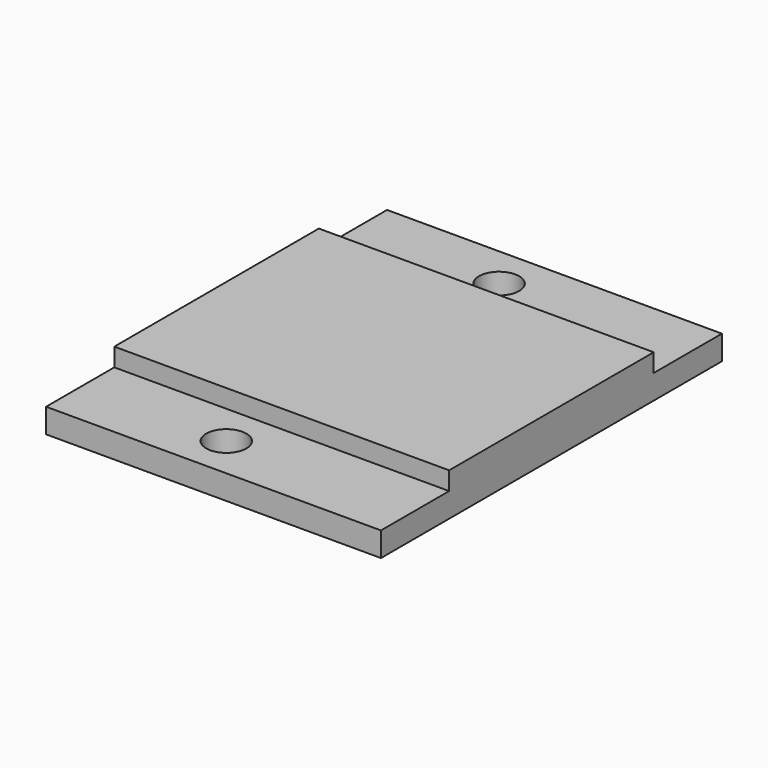
from build123d import *

# Parameters (mm, degrees)
F0_W     = 55
F0_H     = 14
F0_R     = 3.3
F0_H_2   = 42
F1_DEPTH = 4
F2_DEPTH = 3


with BuildPart() as f1:
    # F0 (on Top) → F1 (new body)
    with BuildSketch(Plane.XY):
        with Locations((-27.5, 28)):
            Rectangle(F0_W, F0_H)
        with Locations((-31, 28)):
            Circle(F0_R, mode=Mode.SUBTRACT)
        with Locations((-27.5, 0)):
            Rectangle(F0_W, F0_H_2)
        with Locations((-27.5, -28)):
            Rectangle(F0_W, F0_H)
        with Locations((-31, -28)):
            Circle(F0_R, mode=Mode.SUBTRACT)
    extrude(amount=-F1_DEPTH)

    # F0 (on Top) → F2 (join)
    with BuildSketch(Plane.XY):
        with Locations((-27.5, 0)):
            Rectangle(F0_W, F0_H_2)
    extrude(amount=F2_DEPTH)


solid = f1.part
